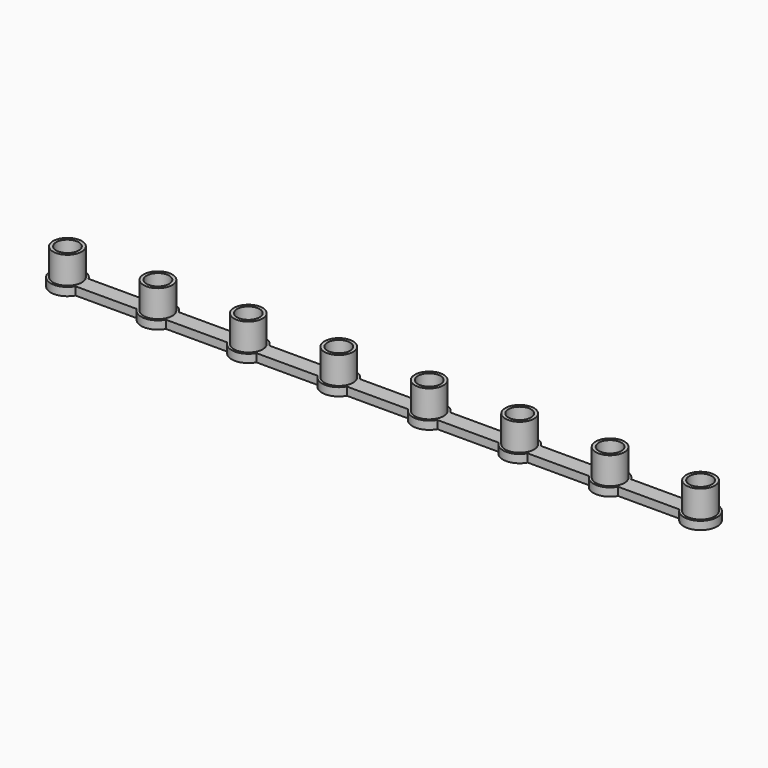
from build123d import *

# Parameters (mm, degrees)
SKETCH_R      = 4.15
PAD_DEPTH     = 3
SKETCH001_R   = 5.3
SKETCH001_R_2 = 4.15
PAD001_DEPTH  = 10


with BuildPart() as part:
    # Sketch → Pad (new body)
    with BuildSketch(Plane.XY):
        with BuildLine():
            Line((5.368659, -3), (27.964674, -3))
            ThreePointArc((27.964674, -3), (33.333333, -6.15), (38.701992, -3))
            Line((38.701992, -3), (61.298007, -3))
            ThreePointArc((61.298007, -3), (66.666666, -6.15), (72.035325, -3))
            Line((72.035325, -3), (94.63134, -3))
            ThreePointArc((94.63134, -3), (99.999999, -6.15), (105.368658, -3))
            Line((105.368658, -3), (127.964673, -3))
            ThreePointArc((127.964673, -3), (133.333332, -6.15), (138.701991, -3))
            Line((138.701991, -3), (161.298006, -3))
            ThreePointArc((161.298006, -3), (166.666665, -6.15), (172.035324, -3))
            Line((172.035324, -3), (194.631339, -3))
            ThreePointArc((194.631339, -3), (199.999998, -6.15), (205.368657, -3))
            Line((205.368657, -3), (227.964672, -3))
            ThreePointArc((227.964672, -3), (239.483331, 0), (227.964672, 3))
            Line((205.368657, 3), (227.964672, 3))
            ThreePointArc((205.368657, 3), (199.999998, 6.15), (194.631339, 3))
            Line((172.035324, 3), (194.631339, 3))
            ThreePointArc((172.035324, 3), (166.666665, 6.15), (161.298006, 3))
            Line((138.701991, 3), (161.298006, 3))
            ThreePointArc((138.701991, 3), (133.333332, 6.15), (127.964673, 3))
            Line((105.368658, 3), (127.964673, 3))
            ThreePointArc((105.368658, 3), (99.999999, 6.15), (94.63134, 3))
            Line((72.035325, 3), (94.63134, 3))
            ThreePointArc((72.035325, 3), (66.666666, 6.15), (61.298007, 3))
            Line((38.701992, 3), (61.298007, 3))
            ThreePointArc((38.701992, 3), (33.333333, 6.15), (27.964674, 3))
            Line((5.368659, 3), (27.964674, 3))
            ThreePointArc((5.368659, 3), (-6.15, 0), (5.368659, -3))
        make_face()
        Circle(SKETCH_R, mode=Mode.SUBTRACT)
        with Locations((33.333333, 0)):
            Circle(SKETCH_R, mode=Mode.SUBTRACT)
        with Locations((66.666666, 0)):
            Circle(SKETCH_R, mode=Mode.SUBTRACT)
        with Locations((99.999999, 0)):
            Circle(SKETCH_R, mode=Mode.SUBTRACT)
        with Locations((133.333332, 0)):
            Circle(SKETCH_R, mode=Mode.SUBTRACT)
        with Locations((166.666665, 0)):
            Circle(SKETCH_R, mode=Mode.SUBTRACT)
        with Locations((199.999998, 0)):
            Circle(SKETCH_R, mode=Mode.SUBTRACT)
        with Locations((233.333331, 0)):
            Circle(SKETCH_R, mode=Mode.SUBTRACT)
    extrude(amount=PAD_DEPTH)

    # Sketch001 (on Face38 of Pad) → Pad001 (join)
    with BuildSketch(Plane.XY.offset(3)):
        Circle(SKETCH001_R)
        Circle(SKETCH001_R_2, mode=Mode.SUBTRACT)
        with Locations((33.333333, 0)):
            Circle(SKETCH001_R)
        with Locations((33.333333, 0)):
            Circle(SKETCH001_R_2, mode=Mode.SUBTRACT)
        with Locations((66.666666, 0)):
            Circle(SKETCH001_R)
        with Locations((66.666666, 0)):
            Circle(SKETCH001_R_2, mode=Mode.SUBTRACT)
        with Locations((99.999999, 0)):
            Circle(SKETCH001_R)
        with Locations((99.999999, 0)):
            Circle(SKETCH001_R_2, mode=Mode.SUBTRACT)
        with Locations((133.333332, 0)):
            Circle(SKETCH001_R)
        with Locations((133.333332, 0)):
            Circle(SKETCH001_R_2, mode=Mode.SUBTRACT)
        with Locations((166.666665, 0)):
            Circle(SKETCH001_R)
        with Locations((166.666665, 0)):
            Circle(SKETCH001_R_2, mode=Mode.SUBTRACT)
        with Locations((199.999998, 0)):
            Circle(SKETCH001_R)
        with Locations((199.999998, 0)):
            Circle(SKETCH001_R_2, mode=Mode.SUBTRACT)
        with Locations((233.333331, 0)):
            Circle(SKETCH001_R)
        with Locations((233.333331, 0)):
            Circle(SKETCH001_R_2, mode=Mode.SUBTRACT)
    extrude(amount=PAD001_DEPTH)


solid = part.part
